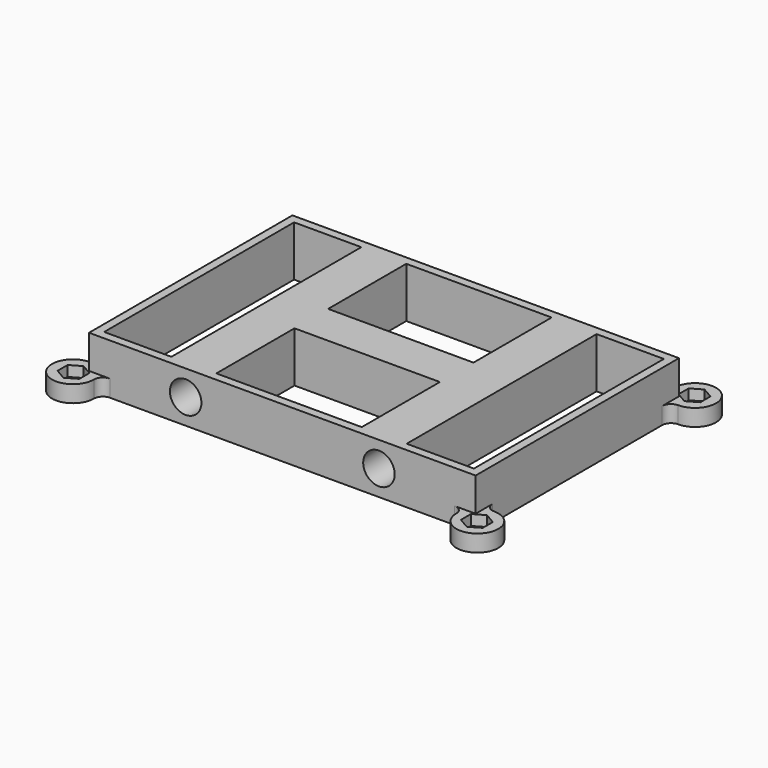
from build123d import *

# Parameters (mm, degrees)
PAD014_DEPTH            = 4
SKETCH052_W             = 60.5
SKETCH052_H             = 92
PAD015_DEPTH            = 8
POCKET022_DEPTH         = 2.5
SKETCH080_R             = 3.75
POCKET023_DEPTH         = 60.5
SKETCH050_W             = 56.5
SKETCH050_H             = 16
SKETCH050_W_2           = 23.25
SKETCH050_H_2           = 34.6
POCKET024_DEPTH         = 12
SKETCH053_R             = 1.5
POCKET025_DEPTH         = 1.5
BODY005_PLACEMENT_ANGLE = 270


with BuildPart() as part:
    # Sketch079 → Pad014 (new body)
    with BuildSketch(Plane.XY):
        with BuildLine():
            ThreePointArc((-27.37132, 48.12132), (-35.906854, 51.656854), (-32.37132, 43.12132))
            ThreePointArc((-30.25, 41), (-30.87132, 42.5), (-32.37132, 43.12132))
            Line((-30.25, 41), (-30.25, -41))
            ThreePointArc((-32.37132, -43.12132), (-30.87132, -42.5), (-30.25, -41))
            ThreePointArc((-32.37132, -43.12132), (-35.906854, -51.656854), (-27.37132, -48.12132))
            ThreePointArc((-25.25, -46), (-26.75, -46.62132), (-27.37132, -48.12132))
            Line((-25.25, -46), (25.25, -46))
            ThreePointArc((27.37132, -48.12132), (26.75, -46.62132), (25.25, -46))
            ThreePointArc((27.37132, -48.12132), (35.906854, -51.656854), (32.37132, -43.12132))
            ThreePointArc((30.25, -41), (30.87132, -42.5), (32.37132, -43.12132))
            Line((30.25, 41), (30.25, -41))
            ThreePointArc((32.37132, 43.12132), (30.87132, 42.5), (30.25, 41))
            ThreePointArc((32.37132, 43.12132), (35.906854, 51.656854), (27.37132, 48.12132))
            ThreePointArc((25.250016, 46), (26.750006, 46.621326), (27.37132, 48.12132))
            Line((-25.25, 46), (25.250016, 46))
            ThreePointArc((-27.37132, 48.12132), (-26.75, 46.62132), (-25.25, 46))
        make_face()
    extrude(amount=PAD014_DEPTH)

    # Sketch052 (on Face18 of Pad014) → Pad015 (join)
    with BuildSketch(Plane.XY.offset(4)):
        Rectangle(SKETCH052_W, SKETCH052_H)
    extrude(amount=PAD015_DEPTH)

    # Sketch051 (on Face4 of Pad015) → Pocket022 (cut)
    with BuildSketch(Plane.XY.offset(4)):
        Polygon((-30.87132, 50.598076), (-33.87132, 50.598076), (-35.37132, 48), (-33.87132, 45.401924), (-30.87132, 45.401924), (-29.37132, 48), align=None)
        Polygon((33.87132, 50.598076), (30.87132, 50.598076), (29.37132, 48), (30.87132, 45.401924), (33.87132, 45.401924), (35.37132, 48), align=None)
        Polygon((33.87132, -45.401924), (30.87132, -45.401924), (29.37132, -48), (30.87132, -50.598076), (33.87132, -50.598076), (35.37132, -48), align=None)
        Polygon((-30.87132, -45.401924), (-33.87132, -45.401924), (-35.37132, -48), (-33.87132, -50.598076), (-30.87132, -50.598076), (-29.37132, -48), align=None)
    extrude(amount=-POCKET022_DEPTH, mode=Mode.SUBTRACT)

    # Sketch080 (on Face9 of Pocket022) → Pocket023 (cut)
    with BuildSketch(Plane.YZ.offset(30.25)):
        with Locations((-23, 6)):
            Circle(SKETCH080_R)
        with Locations((23, 6)):
            Circle(SKETCH080_R)
    extrude(amount=-POCKET023_DEPTH, mode=Mode.SUBTRACT)

    # Sketch050 (on Face8 of Pocket023) → Pocket024 (cut)
    with BuildSketch(Plane.XY.offset(12)):
        with Locations((0, 36)):
            Rectangle(SKETCH050_W, SKETCH050_H)
        with Locations((16.625, 0)):
            Rectangle(SKETCH050_W_2, SKETCH050_H_2)
        with Locations((-16.625, 0)):
            Rectangle(SKETCH050_W_2, SKETCH050_H_2)
        with Locations((0, -36)):
            Rectangle(SKETCH050_W, SKETCH050_H)
    extrude(amount=-POCKET024_DEPTH, mode=Mode.SUBTRACT)

    # Sketch053 (on Face53 of Pocket024) → Pocket025 (cut)
    with BuildSketch(Plane.XY.offset(1.5)):
        with Locations((-32.37132, 48.12)):
            Circle(SKETCH053_R)
        with Locations((32.37132, 48.12)):
            Circle(SKETCH053_R)
        with Locations((-32.37132, -48.12)):
            Circle(SKETCH053_R)
        with Locations((32.37132, -48.12)):
            Circle(SKETCH053_R)
    extrude(amount=-POCKET025_DEPTH, mode=Mode.SUBTRACT)


with BuildPart() as part_1:
    # Body005 placement: moved
    add(part.part.moved(Location((64, 0, 35))).rotate(Axis((64, 0, 35), (0, 0, 1)), BODY005_PLACEMENT_ANGLE))


solid = part_1.part
